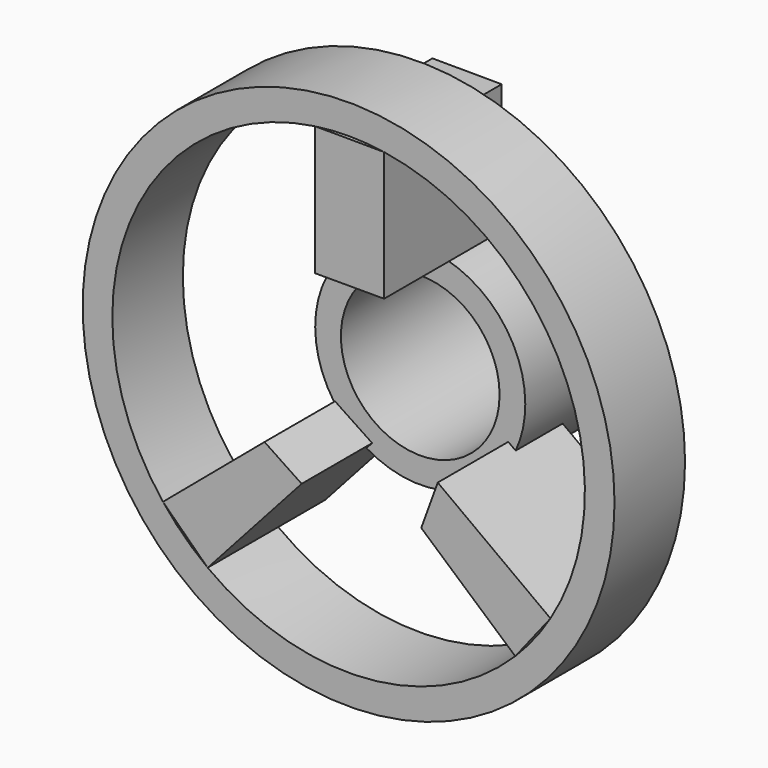
from build123d import *

# Parameters (mm, degrees)
F0_R     = 2.145
F0_R_2   = 1.62
F1_DEPTH = 3.12
F2_R     = 5.43
F2_R_2   = 4.825
F3_DEPTH = 1.8
F5_DEPTH = 3


with BuildPart() as f1:
    # F0 (on Front) → F1 (new body)
    with BuildSketch(Plane.XZ):
        with Locations((-36.4532209933, 10.0345024839)):
            Circle(F0_R)
        with Locations((-36.4532209933, 10.0345024839)):
            Circle(F0_R_2, mode=Mode.SUBTRACT)
    extrude(amount=-F1_DEPTH)



with BuildPart() as f3:
    # F2 (on Front) → F3 (new body)
    with BuildSketch(Plane.XZ):
        with Locations((-36.4760383964, 10.0597171113)):
            Circle(F2_R)
        with Locations((-36.4760383964, 10.0597171113)):
            Circle(F2_R_2, mode=Mode.SUBTRACT)
    extrude(amount=F3_DEPTH)


with BuildPart() as f1_1:
    add(f1.part)

    add(f3.part)  # F5 merges F3
    # F4 (on face) → F5 (join)
    with BuildSketch(Plane.XZ.offset(1.8)):
        Polygon((-35.7505641878, 14.8298651355), (-37.1642453892, 14.8353841993), (-37.1642453892, 12.1934785749), (-35.7505641878, 12.1934785749), align=None)
        Polygon((-38.1928794086, 8.8247712702), (-40.2667231384, 7.0745313237), (-39.3536103606, 6.1867073527), (-37.4349206686, 8.3194654435), align=None)
        Polygon((-32.3542226545, 7.5514786876), (-34.6557348967, 9.2458603904), (-34.9926054478, 8.3194654435), (-33.0732072129, 6.6389913203), align=None)
    extrude(amount=-F5_DEPTH)


solid = f1_1.part
